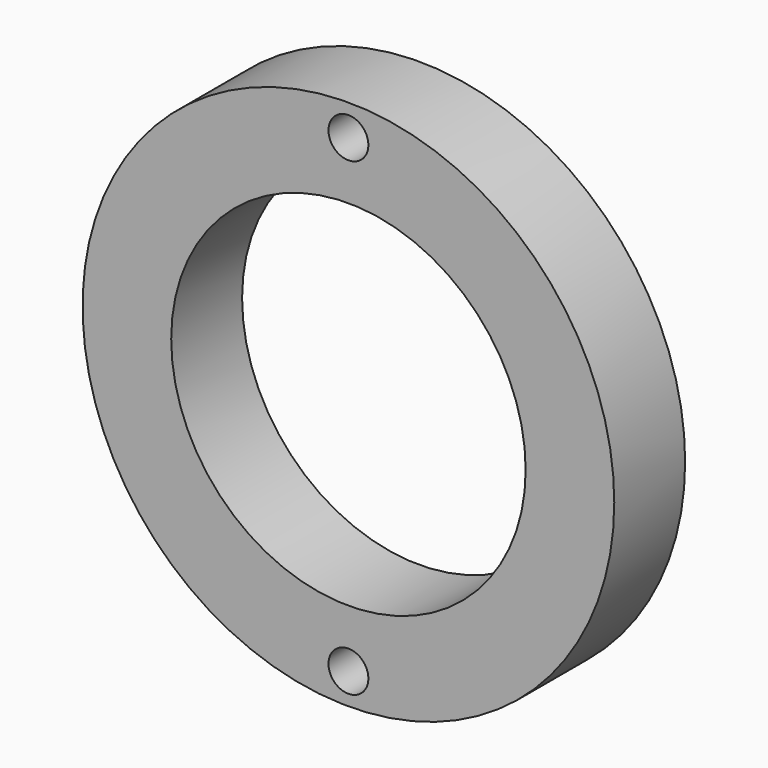
from build123d import *

# Parameters (mm, degrees)
F0_R     = 60
F0_R_2   = 4.5
F0_R_3   = 40
F1_DEPTH = 20


with BuildPart() as f1:
    # F0 (on Front) → F1 (new body)
    with BuildSketch(Plane.XZ):
        Circle(F0_R)
        with Locations((0, -53)):
            Circle(F0_R_2, mode=Mode.SUBTRACT)
        Circle(F0_R_3, mode=Mode.SUBTRACT)
        with Locations((0, 53)):
            Circle(F0_R_2, mode=Mode.SUBTRACT)
    extrude(amount=F1_DEPTH)


solid = f1.part
